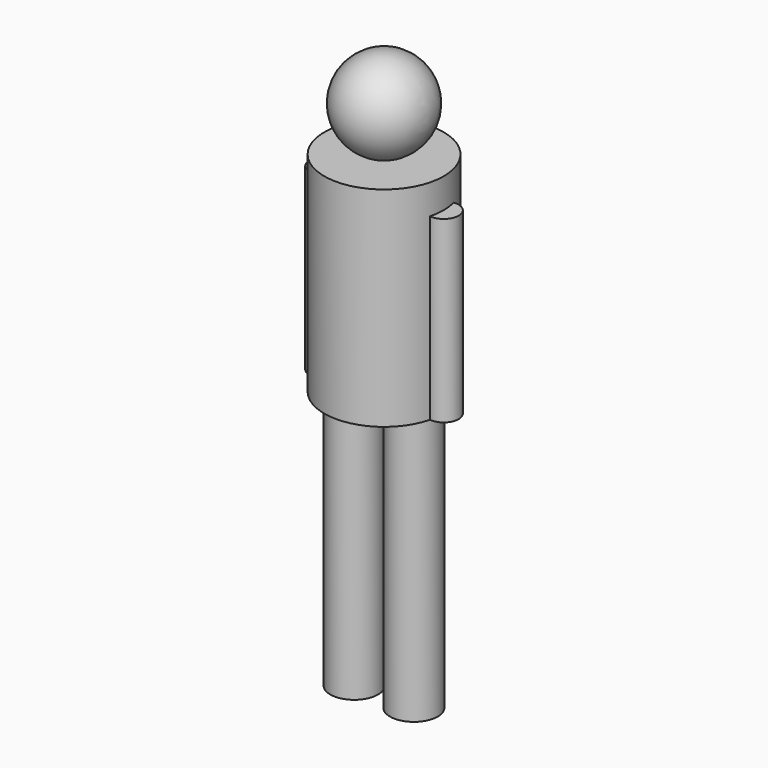
from build123d import *

# Parameters (mm, degrees)
CYLINDER_R        = 0.2
CYLINDER_DEPTH    = 0.7
CYLINDER001_R     = 0.05
CYLINDER001_DEPTH = 0.6
CYLINDER002_R     = 0.05
CYLINDER002_DEPTH = 0.6
CYLINDER003_R     = 0.08
CYLINDER003_DEPTH = 0.9
CYLINDER004_R     = 0.08
CYLINDER004_DEPTH = 0.9


with BuildPart() as trunk:
    # Cylinder → Cylinder (new body)
    with BuildSketch(Plane.XY.offset(0.9)):
        Circle(CYLINDER_R)
    extrude(amount=CYLINDER_DEPTH)


with BuildPart() as head:
    # Sphere → Sphere (revolve)
    with BuildSketch(Plane(origin=(0, 0, 1.75), x_dir=(1, 0, 0), z_dir=(0, -1, 0))):
        with BuildLine():
            ThreePointArc((0, -0.15), (0.15, 0), (0, 0.15))
            Line((0, 0.15), (0, -0.15))
        make_face()
    revolve(axis=Axis((0, 0, 1.75), (0, 0, 1)))


with BuildPart() as left_arm:
    # Cylinder001 → Cylinder001 (new body)
    with BuildSketch(Plane(origin=(-0.2, 0, 0.9), x_dir=(1, 0, 0), z_dir=(0, 0, 1))):
        Circle(CYLINDER001_R)
    extrude(amount=CYLINDER001_DEPTH)


with BuildPart() as right_arm:
    # Cylinder002 → Cylinder002 (new body)
    with BuildSketch(Plane(origin=(0.2, 0, 0.9), x_dir=(1, 0, 0), z_dir=(0, 0, 1))):
        Circle(CYLINDER002_R)
    extrude(amount=CYLINDER002_DEPTH)


with BuildPart() as left_leg:
    # Cylinder003 → Cylinder003 (new body)
    with BuildSketch(Plane(origin=(-0.1, 0, 0), x_dir=(1, 0, 0), z_dir=(0, 0, 1))):
        Circle(CYLINDER003_R)
    extrude(amount=CYLINDER003_DEPTH)


with BuildPart() as right_leg:
    # Cylinder004 → Cylinder004 (new body)
    with BuildSketch(Plane(origin=(0.1, 0, 0), x_dir=(1, 0, 0), z_dir=(0, 0, 1))):
        Circle(CYLINDER004_R)
    extrude(amount=CYLINDER004_DEPTH)


solid = Compound([trunk.part, head.part, left_arm.part, right_arm.part, left_leg.part, right_leg.part])
